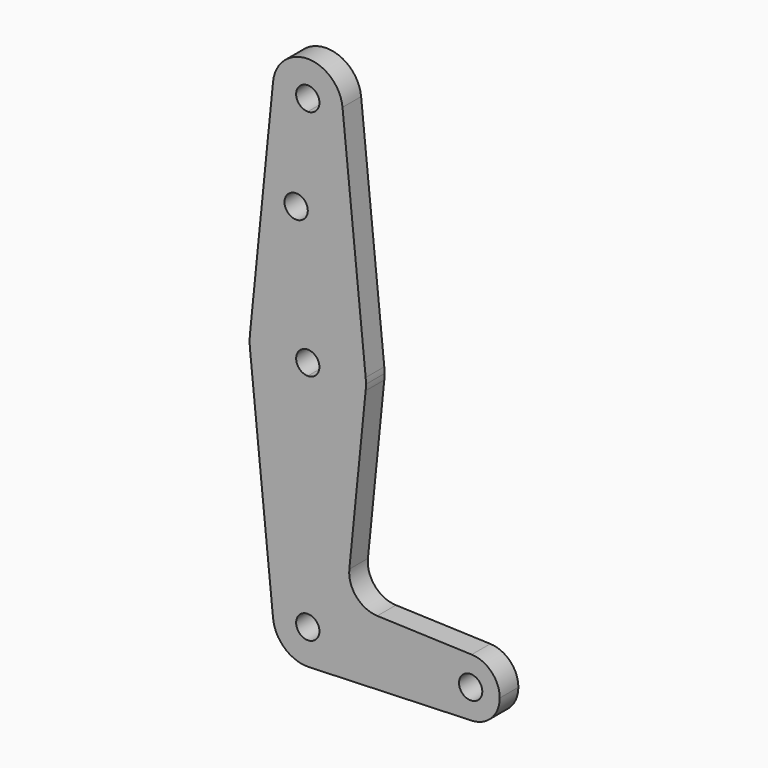
from build123d import *

# Parameters (mm, degrees)
F0_R     = 3.175
F1_DEPTH = 6.35


with BuildPart() as f1:
    # F0 (on Front) → F1 (new body)
    with BuildSketch(Plane.XZ):
        with BuildLine():
            ThreePointArc((9.4772553384, 127.9525), (0, 136.525), (-9.4772553384, 127.9525))
            ThreePointArc((-9.4772553384, 127.9525), (-7.063929059, 120.6104357543), (0, 117.475))
            ThreePointArc((0, 117.475), (6.7351920908, 120.2648079092), (9.525, 127))
            ThreePointArc((9.525, 127), (9.5130563464, 127.4768479324), (9.4772553384, 127.9525))
        make_face()
        with BuildLine():
            ThreePointArc((3.175, 127), (2.2450640303, 124.7549359697), (0, 123.825))
            ThreePointArc((0, 123.825), (-2.2450640303, 129.2450640303), (3.175, 127))
        make_face(mode=Mode.SUBTRACT)
        with BuildLine():
            Line((-9.4772553384, 127.9525), (-15.7954255641, 65.0875))
            ThreePointArc((-15.7954255641, 65.0875), (-10.6492737428, 75.2732150983), (0, 79.375))
            Line((0, 79.375), (0, 100.0252))
            Line((0, 100.0252), (0, 117.475))
            ThreePointArc((0, 117.475), (-7.063929059, 120.6104357543), (-9.4772553384, 127.9525))
        make_face()
        with Locations((-3.175, 100.0252)):
            Circle(F0_R, mode=Mode.SUBTRACT)
        with BuildLine():
            Line((0, 100.0252), (0, 79.375))
            ThreePointArc((0, 79.375), (10.6492737428, 75.2732150983), (15.7954255641, 65.0875))
            Line((15.7954255641, 65.0875), (9.4772553384, 127.9525))
            ThreePointArc((9.4772553384, 127.9525), (9.5130563464, 127.4768479324), (9.525, 127))
            ThreePointArc((9.525, 127), (6.7351920908, 120.2648079092), (0, 117.475))
            Line((0, 117.475), (0, 100.0252))
        make_face()
        with BuildLine():
            ThreePointArc((-15.7954255641, 61.9125), (-10.6492737428, 51.7267849017), (0, 47.625))
            Line((0, 47.625), (0, 60.325))
            ThreePointArc((0, 60.325), (-3.175, 63.5), (0, 66.675))
            Line((0, 66.675), (0, 79.375))
            ThreePointArc((0, 79.375), (-10.6492737428, 75.2732150983), (-15.7954255641, 65.0875))
            ThreePointArc((-15.7954255641, 65.0875), (-15.875, 63.5), (-15.7954255641, 61.9125))
        make_face()
        with BuildLine():
            Line((0, 60.325), (0, 47.625))
            ThreePointArc((0, 47.625), (10.6492737428, 51.7267849017), (15.7954255641, 61.9125))
            ThreePointArc((15.7954255641, 61.9125), (15.8550939106, 62.7052534459), (15.875, 63.5))
            ThreePointArc((15.875, 63.5), (15.8550939106, 64.2947465541), (15.7954255641, 65.0875))
            ThreePointArc((15.7954255641, 65.0875), (10.6492737428, 75.2732150983), (0, 79.375))
            Line((0, 79.375), (0, 66.675))
            ThreePointArc((0, 66.675), (2.2450640303, 65.7450640303), (3.175, 63.5))
            ThreePointArc((3.175, 63.5), (2.2450640303, 61.2549359697), (0, 60.325))
        make_face()
        with BuildLine():
            ThreePointArc((-9.4772553384, -0.9525), (-7.063929059, 6.3895642457), (0, 9.525))
            Line((0, 9.525), (0, 47.625))
            ThreePointArc((0, 47.625), (-10.6492737428, 51.7267849017), (-15.7954255641, 61.9125))
            Line((-15.7954255641, 61.9125), (-9.4772553384, -0.9525))
        make_face()
        with BuildLine():
            Line((0, 47.625), (0, 9.525))
            ThreePointArc((0, 9.525), (6.7351920908, 6.7351920908), (9.525, 0))
            Line((9.525, 0), (36.5125, 0))
            ThreePointArc((36.5125, 0), (38.9384772185, 5.7120069047), (44.7334821429, 7.9324362036))
            Line((44.7334821429, 7.9324362036), (18.9676000005, 8.8532337108))
            ThreePointArc((18.9676000005, 8.8532337108), (13.2611998974, 11.5713591498), (11.3411865923, 17.5933818124))
            Line((11.3411865923, 17.5933818124), (15.7954255641, 61.9125))
            ThreePointArc((15.7954255641, 61.9125), (10.6492737428, 51.7267849017), (0, 47.625))
        make_face()
        with BuildLine():
            ThreePointArc((3.175, 0), (-2.2450640303, -2.2450640303), (0, 3.175))
            Line((0, 3.175), (0, 9.525))
            ThreePointArc((0, 9.525), (-7.063929059, 6.3895642457), (-9.4772553384, -0.9525))
            ThreePointArc((-9.4772553384, -0.9525), (-6.2623833816, -7.1769199091), (0.3401785714, -9.5189234444))
            ThreePointArc((0.3401785714, -9.5189234444), (6.8544082857, -6.6138273378), (9.525, 0))
            Line((9.525, 0), (3.175, 0))
        make_face()
        with BuildLine():
            Line((0, 9.525), (0, 3.175))
            ThreePointArc((0, 3.175), (2.2450640303, 2.2450640303), (3.175, 0))
            Line((3.175, 0), (9.525, 0))
            ThreePointArc((9.525, 0), (6.7351920908, 6.7351920908), (0, 9.525))
        make_face()
        with BuildLine():
            Line((36.5125, 0), (9.525, 0))
            ThreePointArc((9.525, 0), (6.8544082857, -6.6138273378), (0.3401785714, -9.5189234444))
            Line((0.3401785714, -9.5189234444), (44.7334821429, -7.9324362036))
            ThreePointArc((44.7334821429, -7.9324362036), (38.9384772185, -5.7120069047), (36.5125, 0))
        make_face()
        with BuildLine():
            ThreePointArc((44.7334821429, 7.9324362036), (38.9384772185, 5.7120069047), (36.5125, 0))
            ThreePointArc((36.5125, 0), (38.9384772185, -5.7120069047), (44.7334821429, -7.9324362036))
            ThreePointArc((44.7334821429, -7.9324362036), (50.1620069047, -5.5115227815), (52.3875, 0))
            ThreePointArc((52.3875, 0), (50.1620069047, 5.5115227815), (44.7334821429, 7.9324362036))
        make_face()
        with BuildLine():
            ThreePointArc((47.625, 0), (44.45, -3.175), (41.275, 0))
            ThreePointArc((41.275, 0), (44.45, 3.175), (47.625, 0))
        make_face(mode=Mode.SUBTRACT)
    extrude(amount=F1_DEPTH)


solid = f1.part
